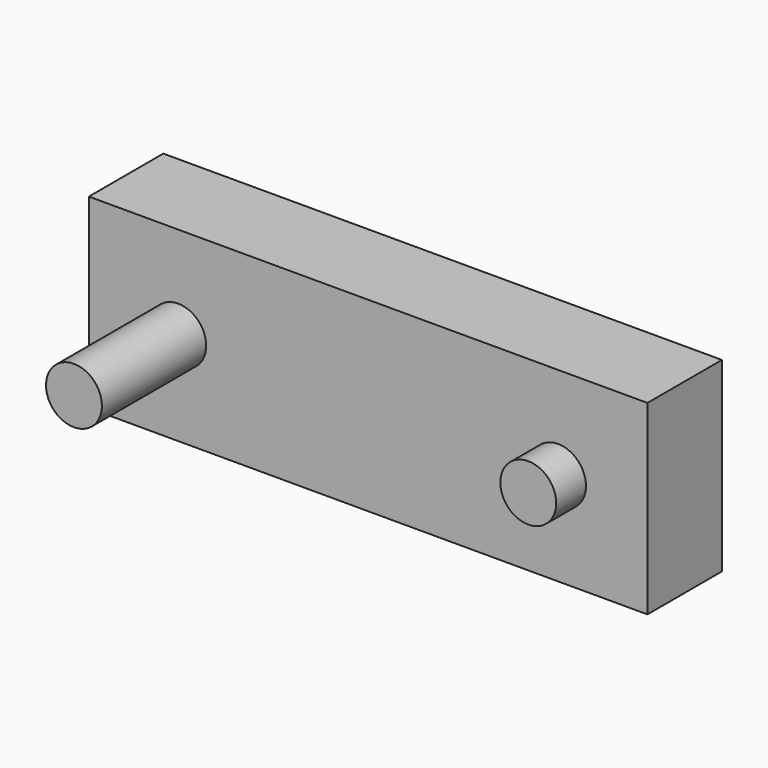
from build123d import *

# Parameters (mm, degrees)
F0_W     = 38.1
F0_H     = 12.7
F1_DEPTH = 6.35
F2_R     = 1.905
F3_DEPTH = 8.89
F4_R     = 1.905
F5_DEPTH = 2.54


with BuildPart() as f1:
    # F0 (on Front) → F1 (new body)
    with BuildSketch(Plane.XZ):
        Rectangle(F0_W, F0_H)
    extrude(amount=F1_DEPTH)

    # F2 (on face) → F3 (join)
    with BuildSketch(Plane.XZ.offset(6.35)):
        with Locations((-12.954, 0)):
            Circle(F2_R)
    extrude(amount=F3_DEPTH)

    # F4 (on face) → F5 (join)
    with BuildSketch(Plane.XZ.offset(6.35)):
        with Locations((12.954, 0)):
            Circle(F4_R)
    extrude(amount=F5_DEPTH)


solid = f1.part
